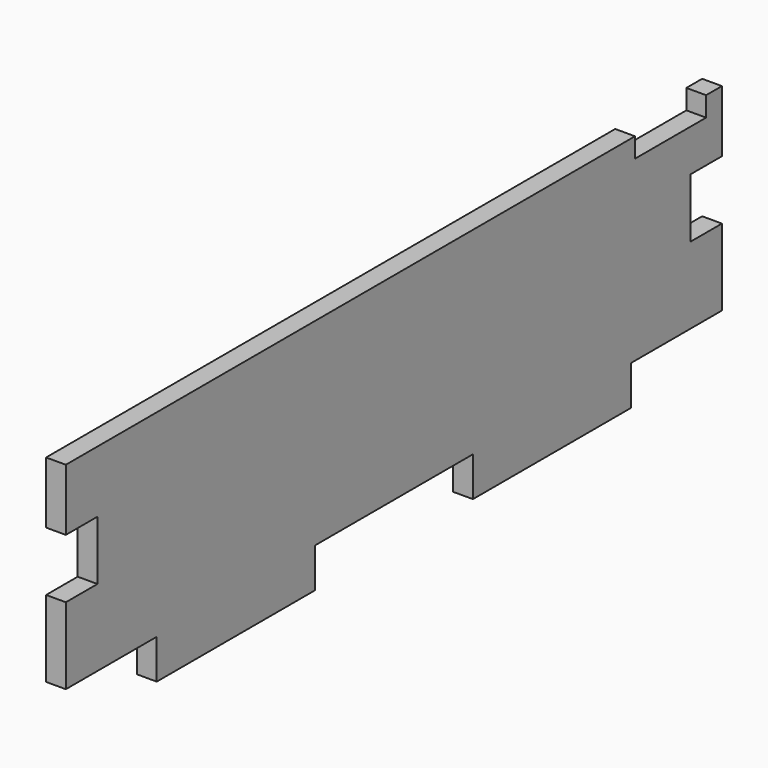
from build123d import *

# Parameters (mm, degrees)
SKETCH008_W     = 166
SKETCH008_H     = 48
PAD005_DEPTH    = 4
SKETCH028_W     = 40
SKETCH028_H     = 30
SKETCH028_H_2   = 12
POCKET011_DEPTH = 4.001
SKETCH056_W     = 18
SKETCH056_H     = 10
POCKET022_DEPTH = 4.001


with BuildPart() as part:
    # Sketch008 (on DatumPlane) → Pad005 (new body)
    with BuildSketch(Plane(origin=(-129, 0, -4), x_dir=(0, 1, 0), z_dir=(1, 0, 0))):
        with Locations((0, 20)):
            Rectangle(SKETCH008_W, SKETCH008_H)
    extrude(amount=PAD005_DEPTH)

    # Sketch028 (on Face5 of Pad005) → Pocket011 (cut, through all)
    with BuildSketch(Plane(origin=(-129, 0, -4), x_dir=(0, 1, 0), z_dir=(-1, 0, 0))):
        with Locations((-80, 11)):
            Rectangle(SKETCH028_W, SKETCH028_H)
        with Locations((0, 11)):
            Rectangle(SKETCH028_W, SKETCH028_H)
        with Locations((80, 11)):
            Rectangle(SKETCH028_W, SKETCH028_H)
        with Locations((-95, -25.5)):
            Rectangle(SKETCH028_W, SKETCH028_H_2)
        with Locations((95, -25.5)):
            Rectangle(SKETCH028_W, SKETCH028_H_2)
    extrude(amount=-POCKET011_DEPTH, mode=Mode.SUBTRACT)

    # Sketch056 (on Face4 of Pocket011) → Pocket022 (cut, through all)
    with BuildSketch(Plane(origin=(-129, 0, -4), x_dir=(0, 1, 0), z_dir=(-1, 0, 0))):
        with Locations((70, -45)):
            Rectangle(SKETCH056_W, SKETCH056_H)
    extrude(amount=-POCKET022_DEPTH, mode=Mode.SUBTRACT)


solid = part.part
